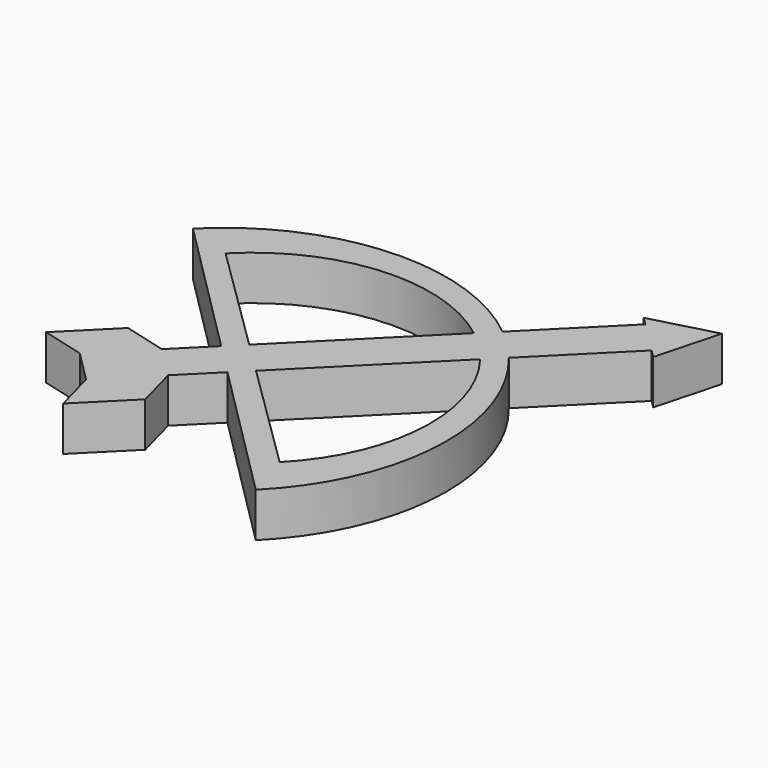
from build123d import *

# Parameters (mm, degrees)
F1_DEPTH = 6.35


with BuildPart() as f1:
    # F0 (on Top) → F1 (new body)
    with BuildSketch(Plane.XY):
        Polygon((-2.4695704333, -6.9596984938), (2.2450640303, -2.2450640303), (-2.2450640303, 2.2450640303), (-6.9596984938, -2.4695704333), (-13.4703841816, -8.9802561211), (-8.9802561211, -13.4703841816), align=None)
        Polygon((-13.4703841816, -8.9802561211), (-6.9596984938, -2.4695704333), (-13.0933274908, -0.8260694969), (-19.6040131785, -7.3367551847), align=None)
        Polygon((-0.8260694969, -13.0933274908), (-2.4695704333, -6.9596984938), (-8.9802561211, -13.4703841816), (-7.3367551847, -19.6040131785), align=None)
        Polygon((-2.2450640303, 2.2450640303), (2.2450640303, -2.2450640303), (4.5091578953, 0.0190298348), (-0.0191557985, 4.4709722621), align=None)
        with BuildLine():
            Line((17.8188331623, 22.3089612229), (20.0930410259, 24.5831690864))
            ThreePointArc((20.0930410259, 24.5831690864), (-1.5894931081, 31.7101878213), (-22.4506403027, 22.4506403027))
            Line((-22.4506403027, 22.4506403027), (-2.2450640303, 2.2450640303))
            Line((-2.2450640303, 2.2450640303), (-0.0191557985, 4.4709722621))
            Line((-0.0191557985, 4.4709722621), (-15.861194844, 20.0458309248))
            ThreePointArc((-15.861194844, 20.0458309248), (0.5484914827, 27.5815559265), (17.8188331623, 22.3089612229))
        make_face()
        with BuildLine():
            Line((2.2450640303, -2.2450640303), (22.4506403027, -22.4506403027))
            ThreePointArc((22.4506403027, -22.4506403027), (31.7101878213, -1.5894931081), (24.5831690864, 20.0930410259))
            Line((24.5831690864, 20.0930410259), (22.3105612486, 17.820433188))
            ThreePointArc((22.3105612486, 17.820433188), (27.6083493822, 0.7604056771), (20.3640047541, -15.5684206338))
            Line((20.3640047541, -15.5684206338), (4.5091578953, 0.0190298348))
            Line((4.5091578953, 0.0190298348), (2.2450640303, -2.2450640303))
        make_face()
        with BuildLine():
            Line((4.5091578953, 0.0190298348), (22.3105612486, 17.820433188))
            ThreePointArc((22.3105612486, 17.820433188), (20.2055159544, 20.2056163497), (17.8188331623, 22.3089612229))
            Line((17.8188331623, 22.3089612229), (-0.0191557985, 4.4709722621))
            Line((-0.0191557985, 4.4709722621), (4.5091578953, 0.0190298348))
        make_face()
        with BuildLine():
            ThreePointArc((20.0930410259, 24.5831690864), (22.4506403027, 22.4506403027), (24.5831690864, 20.0930410259))
            Line((24.5831690864, 20.0930410259), (35.9210244843, 31.4308964237))
            Line((35.9210244843, 31.4308964237), (33.675960454, 33.675960454))
            Line((33.675960454, 33.675960454), (31.4308964237, 35.9210244843))
            Line((31.4308964237, 35.9210244843), (20.0930410259, 24.5831690864))
        make_face()
        with BuildLine():
            Line((22.3105612486, 17.820433188), (24.5831690864, 20.0930410259))
            ThreePointArc((24.5831690864, 20.0930410259), (22.4506403027, 22.4506403027), (20.0930410259, 24.5831690864))
            Line((20.0930410259, 24.5831690864), (17.8188331623, 22.3089612229))
            ThreePointArc((17.8188331623, 22.3089612229), (20.2055159544, 20.2056163497), (22.3105612486, 17.820433188))
        make_face()
        Polygon((33.675960454, 33.675960454), (35.9210244843, 31.4308964237), (37.0435564994, 30.3083644086), (39.508807904, 39.508807904), align=None)
        Polygon((30.3083644086, 37.0435564994), (31.4308964237, 35.9210244843), (33.675960454, 33.675960454), (39.508807904, 39.508807904), align=None)
    extrude(amount=F1_DEPTH)


solid = f1.part
